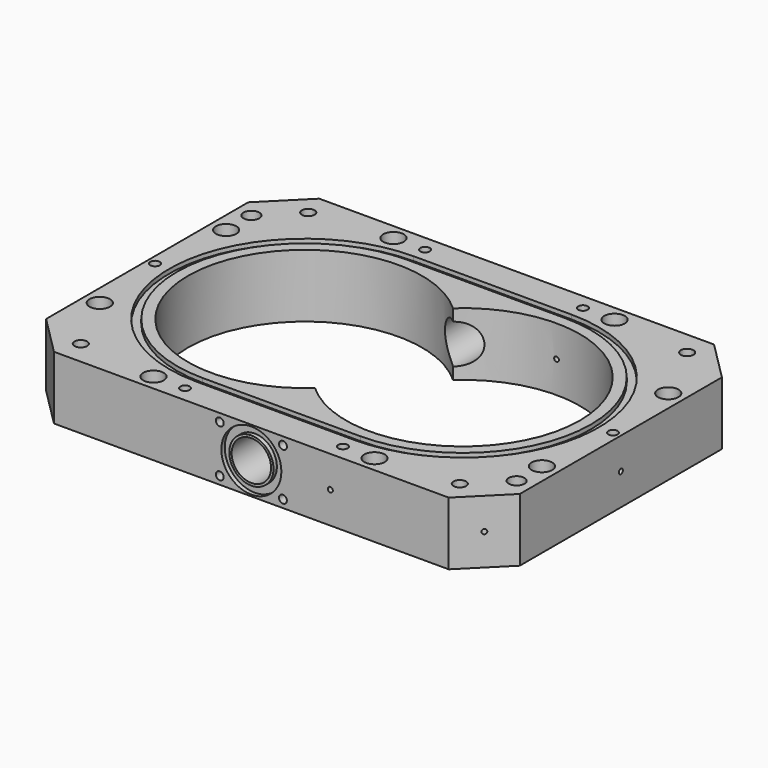
from build123d import *

# Parameters (mm, degrees)
F0_W          = 300
F0_H          = 210
F1_DEPTH      = 20
F1_DEPTH_BACK = 20
F2_R          = 12.5
F3_DEPTH      = 105
F3_DEPTH_BACK = 105
F4_R          = 19
F4_R_2        = 14
F5_DEPTH      = 2.7
F6_R          = 19
F6_R_2        = 14
F7_DEPTH      = 2.7
F8_R          = 6.5
F8_R_2        = 4.25
F9_DEPTH      = 20
F8_R_3        = 3
F10_DEPTH     = 10
F8_R_4        = 5
F11_DEPTH     = 40
F8_R_5        = 4
F12_DEPTH     = 16
F13_SIZE      = 25
F14_R         = 1.5875
F14_R_2       = 1.5
F15_DEPTH     = 10
F16_DEPTH     = 40
F4_R_3        = 1.5875
F4_R_4        = 1.5
F17_DEPTH     = 10
F18_DEPTH     = 40
F6_R_3        = 1.5
F19_DEPTH     = 40
F20_R         = 1.5
F21_DEPTH     = 70
F22_R         = 1.5
F23_DEPTH     = 70
F4_R_5        = 2.5
F24_DEPTH     = 10
F26_DEPTH     = 2.7
F28_DEPTH     = 2.7


with BuildPart() as f1:
    # F0 (on Top) → F1 (new body, two sides)
    with BuildSketch(Plane.XY) as f1_sk:
        Rectangle(F0_W, F0_H)
        with BuildLine():
            ThreePointArc((-50, -86), (-136, 0), (-50, 86))
            Line((-50, 86), (50, 86))
            ThreePointArc((50, 86), (136, 0), (50, -86))
            Line((50, -86), (-50, -86))
        make_face(mode=Mode.SUBTRACT)
        with BuildLine():
            Line((50, 86), (-50, 86))
            ThreePointArc((-50, 86), (-136, 0), (-50, -86))
            Line((-50, -86), (50, -86))
            ThreePointArc((50, -86), (136, 0), (50, 86))
        make_face()
        with BuildLine():
            ThreePointArc((-50, -81), (-131, 0), (-50, 81))
            Line((-50, 81), (50, 81))
            ThreePointArc((50, 81), (131, 0), (50, -81))
            Line((50, -81), (-50, -81))
        make_face(mode=Mode.SUBTRACT)
        with BuildLine():
            Line((50, 81), (-50, 81))
            ThreePointArc((-50, 81), (-131, 0), (-50, -81))
            Line((-50, -81), (50, -81))
            ThreePointArc((50, -81), (131, 0), (50, 81))
        make_face()
        with BuildLine():
            ThreePointArc((0, -54.6611964743), (-124.08, 0), (0, 54.6611964743))
            ThreePointArc((0, 54.6611964743), (124.08, 0), (0, -54.6611964743))
        make_face(mode=Mode.SUBTRACT)
    extrude(amount=F1_DEPTH)
    extrude(f1_sk.sketch, amount=-F1_DEPTH_BACK)

    # F2 (on Front) → F3 (cut, two sides)
    with BuildSketch(Plane.XZ) as f3_sk:
        Circle(F2_R)
    extrude(amount=-F3_DEPTH, mode=Mode.SUBTRACT)
    extrude(f3_sk.sketch, amount=F3_DEPTH_BACK, mode=Mode.SUBTRACT)

    # F4 (on face) → F5 (cut)
    with BuildSketch(Plane.XZ.offset(105)):
        Circle(F4_R)
        Circle(F4_R_2, mode=Mode.SUBTRACT)
    extrude(amount=-F5_DEPTH, mode=Mode.SUBTRACT)

    # F6 (on face) → F7 (cut)
    with BuildSketch(Plane(origin=(0, 105, 0), x_dir=(-1, 0, 0), z_dir=(0, 1, 0))):
        Circle(F6_R)
        Circle(F6_R_2, mode=Mode.SUBTRACT)
    extrude(amount=-F7_DEPTH, mode=Mode.SUBTRACT)

    # F8 (on face) → F9 (cut)
    with BuildSketch(Plane.XY.offset(20)):
        with Locations((140, 50)):
            Circle(F8_R)
        with Locations((140, 50)):
            Circle(F8_R_2, mode=Mode.SUBTRACT)
        with Locations((140, -50)):
            Circle(F8_R)
        with Locations((140, -50)):
            Circle(F8_R_2, mode=Mode.SUBTRACT)
        with Locations((70, -95)):
            Circle(F8_R)
        with Locations((70, -95)):
            Circle(F8_R_2, mode=Mode.SUBTRACT)
        with Locations((-70, -95)):
            Circle(F8_R)
        with Locations((-70, -95)):
            Circle(F8_R_2, mode=Mode.SUBTRACT)
        with Locations((-140, -50)):
            Circle(F8_R)
        with Locations((-140, -50)):
            Circle(F8_R_2, mode=Mode.SUBTRACT)
        with Locations((-140, 50)):
            Circle(F8_R)
        with Locations((-140, 50)):
            Circle(F8_R_2, mode=Mode.SUBTRACT)
        with Locations((-70, 95)):
            Circle(F8_R)
        with Locations((-70, 95)):
            Circle(F8_R_2, mode=Mode.SUBTRACT)
        with Locations((70, 95)):
            Circle(F8_R)
        with Locations((70, 95)):
            Circle(F8_R_2, mode=Mode.SUBTRACT)
    extrude(amount=-F9_DEPTH, mode=Mode.SUBTRACT)

    # F8 (on face) → F10 (cut)
    with BuildSketch(Plane.XY.offset(20)):
        with Locations((-50, 95)):
            Circle(F8_R_3)
        with Locations((-145, 0)):
            Circle(F8_R_3)
        with Locations((50, 95)):
            Circle(F8_R_3)
        with Locations((145, 0)):
            Circle(F8_R_3)
        with Locations((-50, -95)):
            Circle(F8_R_3)
        with Locations((50, -95)):
            Circle(F8_R_3)
    extrude(amount=-F10_DEPTH, mode=Mode.SUBTRACT)

    # F8 (on face) → F11 (cut)
    with BuildSketch(Plane.XY.offset(20)):
        with Locations((-70, 95)):
            Circle(F8_R_2)
        with Locations((-140, 50)):
            Circle(F8_R_2)
        with Locations((-140, -50)):
            Circle(F8_R_2)
        with Locations((-70, -95)):
            Circle(F8_R_2)
        with Locations((70, -95)):
            Circle(F8_R_2)
        with Locations((140, -50)):
            Circle(F8_R_2)
        with Locations((140, 50)):
            Circle(F8_R_2)
        with Locations((70, 95)):
            Circle(F8_R_2)
        with Locations((-140, 70)):
            Circle(F8_R_4)
        with Locations((140, -70)):
            Circle(F8_R_4)
    extrude(amount=-F11_DEPTH, mode=Mode.SUBTRACT)

    # F8 (on face) → F12 (cut)
    with BuildSketch(Plane.XY.offset(20)):
        with Locations((-120, 90)):
            Circle(F8_R_5)
        with Locations((-120, -90)):
            Circle(F8_R_5)
        with Locations((120, -90)):
            Circle(F8_R_5)
        with Locations((120, 90)):
            Circle(F8_R_5)
    extrude(amount=-F12_DEPTH, mode=Mode.SUBTRACT)

    # F13
    f13_edges = [f1.edges().sort_by_distance(p)[0] for p in [
        (-150, 105, 0),
        (-150, -105, 0),
        (150, 105, 0),
        (150, -105, 0),
    ]]
    chamfer(f13_edges, length=F13_SIZE)

    # F14 (on face) → F15 (cut)
    with BuildSketch(Plane.YZ.offset(150)):
        Circle(F14_R)
        Circle(F14_R_2, mode=Mode.SUBTRACT)
    extrude(amount=-F15_DEPTH, mode=Mode.SUBTRACT)

    # F16 (cut): a face of the model
    f16_faces = [f1.faces().sort_by_distance(p)[0] for p in [
        (150, 0, 0),
    ]]
    extrude(f16_faces, amount=-F16_DEPTH, mode=Mode.SUBTRACT)

    # F4 (on face) → F17 (cut)
    with BuildSketch(Plane.XZ.offset(105)):
        with Locations((50, 0)):
            Circle(F4_R_3)
        with Locations((50, 0)):
            Circle(F4_R_4, mode=Mode.SUBTRACT)
    extrude(amount=-F17_DEPTH, mode=Mode.SUBTRACT)

    # F4 (on face) → F18 (cut)
    with BuildSketch(Plane.XZ.offset(105)):
        with Locations((50, 0)):
            Circle(F4_R_4)
    extrude(amount=-F18_DEPTH, mode=Mode.SUBTRACT)

    # F6 (on face) → F19 (cut)
    with BuildSketch(Plane(origin=(0, 105, 0), x_dir=(-1, 0, 0), z_dir=(0, 1, 0))):
        with Locations((-50, 0)):
            Circle(F6_R_3)
    extrude(amount=-F19_DEPTH, mode=Mode.SUBTRACT)

    # F20 (on face) → F21 (cut)
    with BuildSketch(Plane(origin=(115, -115, 0), x_dir=(0.7071067812, 0.7071067812, 0), z_dir=(0.7071067812, -0.7071067812, 0))):
        with Locations((31.8221356237, 0)):
            Circle(F20_R)
    extrude(amount=-F21_DEPTH, mode=Mode.SUBTRACT)

    # F22 (on face) → F23 (cut)
    with BuildSketch(Plane(origin=(115, 115, 0), x_dir=(-0.7071067812, 0.7071067812, 0), z_dir=(0.7071067812, 0.7071067812, 0))):
        with Locations((-31.8174746831, 0)):
            Circle(F22_R)
    extrude(amount=-F23_DEPTH, mode=Mode.SUBTRACT)

    # F4 (on face) → F24 (cut)
    with BuildSketch(Plane.XZ.offset(105)):
        with Locations((-20, 15)):
            Circle(F4_R_5)
        with Locations((20, 15)):
            Circle(F4_R_5)
        with Locations((20, -15)):
            Circle(F4_R_5)
        with Locations((-20, -15)):
            Circle(F4_R_5)
    extrude(amount=-F24_DEPTH, mode=Mode.SUBTRACT)

    # F25 (on face) → F26 (cut)
    with BuildSketch(Plane.XY.offset(20)):
        with BuildLine():
            Line((-50, -86), (50, -86))
            ThreePointArc((50, -86), (136, 0), (50, 86))
            Line((50, 86), (-50, 86))
            ThreePointArc((-50, 86), (-136, 0), (-50, -86))
        make_face()
        with BuildLine():
            ThreePointArc((50, 81), (131, 0), (50, -81))
            Line((50, -81), (-50, -81))
            ThreePointArc((-50, -81), (-131, 0), (-50, 81))
            Line((-50, 81), (50, 81))
        make_face(mode=Mode.SUBTRACT)
    extrude(amount=-F26_DEPTH, mode=Mode.SUBTRACT)

    # F27 (on face) → F28 (cut)
    with BuildSketch(Plane(origin=(0, 0, -20), x_dir=(1, 0, 0), z_dir=(0, 0, -1))):
        with BuildLine():
            Line((50, 86), (-50, 86))
            ThreePointArc((-50, 86), (-136, 0), (-50, -86))
            Line((-50, -86), (50, -86))
            ThreePointArc((50, -86), (136, 0), (50, 86))
        make_face()
        with BuildLine():
            ThreePointArc((-50, -81), (-131, 0), (-50, 81))
            Line((-50, 81), (50, 81))
            ThreePointArc((50, 81), (131, 0), (50, -81))
            Line((50, -81), (-50, -81))
        make_face(mode=Mode.SUBTRACT)
    extrude(amount=-F28_DEPTH, mode=Mode.SUBTRACT)


solid = f1.part
